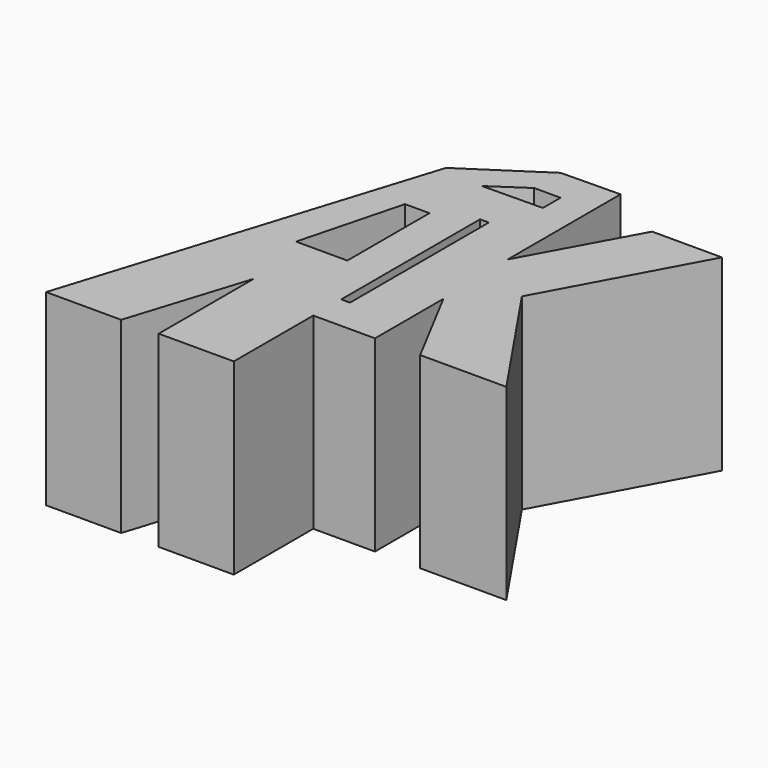
from build123d import *

# Parameters (mm, degrees)
F0_W     = 1.187577
F0_H     = 23.483452
F1_DEPTH = 25.4


with BuildPart() as f1:
    # F0 (on Top) → F1 (new body)
    with BuildSketch(Plane.XY):
        Polygon((-10.16, 0), (0, 0), (0, 13.436677), (8.346432, 13.436677), (8.346432, 25.013026), (14.46536, 13.436677), (26.121393, 13.436677), (14.46536, 30.635824), (25.4, 50.8), (15.953749, 50.8), (8.020745, 36.296282), (8.020745, 50.8), (8.020745, 55.380724), (0, 55.257004), (-10.16, 48.575964), (-25.4, 0), (-15.24, 0), (-10.16, 16.082698), align=None)
        Polygon((-11.994868, 25.509154), (-8.356586, 39.400775), (-5.049058, 39.400775), (-5.049058, 25.509154), align=None, mode=Mode.SUBTRACT)
        Polygon((3.565346, 47.813942), (0, 47.768529), (-4.602884, 47.709901), (0, 50.8), (3.565346, 50.8), align=None, mode=Mode.SUBTRACT)
        with Locations((0.593788, 29.903969)):
            Rectangle(F0_W, F0_H, mode=Mode.SUBTRACT)
    extrude(amount=F1_DEPTH)


solid = f1.part
